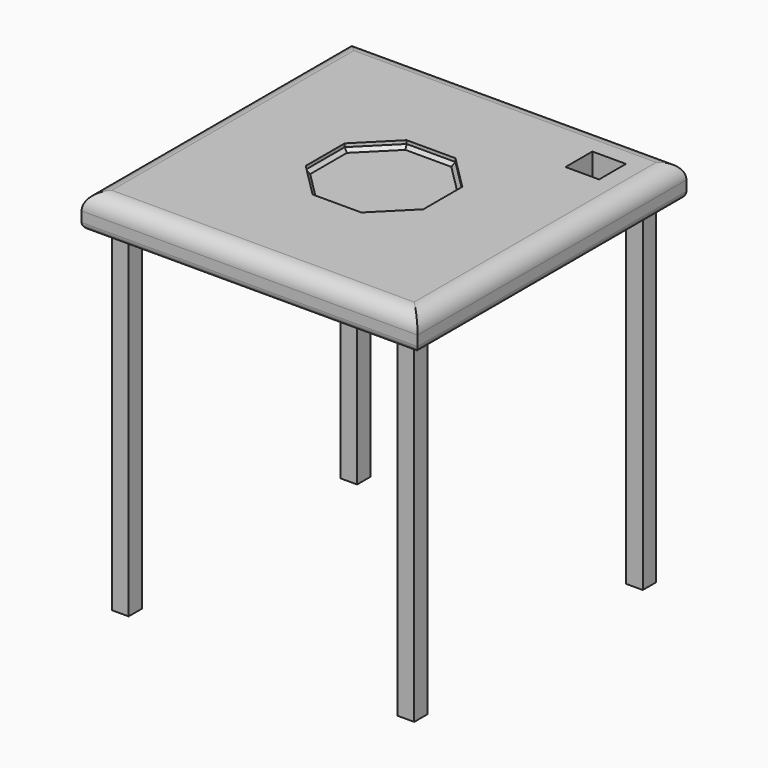
from build123d import *

# Parameters (mm, degrees)
F0_W      = 100
F0_H      = 100
F1_DEPTH  = 10
F2_W      = 5
F2_H      = 5
F3_DEPTH  = 100
F4_R      = 5
F5_R      = 2
F7_DEPTH  = 2
F8_SIZE   = 1
F9_W      = 10
F9_H      = 10
F10_DEPTH = 10


with BuildPart() as f1:
    # F0 (on Top) → F1 (new body)
    with BuildSketch(Plane.XY):
        Rectangle(F0_W, F0_H)
    extrude(amount=F1_DEPTH)

    # F2 (on face) → F3 (join)
    with BuildSketch(Plane(origin=(0, 0, 0), x_dir=(1, 0, 0), z_dir=(0, 0, -1))):
        with Locations((-42.5, 42.5)):
            Rectangle(F2_W, F2_H)
        with Locations((-42.5, -42.5)):
            Rectangle(F2_W, F2_H)
        with Locations((42.5, 42.5)):
            Rectangle(F2_W, F2_H)
        with Locations((42.5, -42.5)):
            Rectangle(F2_W, F2_H)
    extrude(amount=F3_DEPTH)

    # F4
    f4_edges = [f1.edges().sort_by_distance(p)[0] for p in [
        (0, 50, 10),
        (-50, 0, 10),
        (0, -50, 10),
        (50, 0, 10),
    ]]
    fillet(f4_edges, radius=F4_R)

    # F5
    f5_edges = [f1.edges().sort_by_distance(p)[0] for p in [
        (0, -50, 0),
        (50, 0, 0),
        (0, 50, 0),
        (-50, 0, 0),
    ]]
    fillet(f5_edges, radius=F5_R)

    # F6 (on face) → F7 (cut)
    with BuildSketch(Plane.XY.offset(10)):
        Polygon((-7.248737, -17.5), (7.248737, -17.5), (17.5, -7.248737), (17.5, 7.248737), (7.248737, 17.5), (-7.248737, 17.5), (-17.5, 7.248737), (-17.5, -7.248737), align=None)
    extrude(amount=-F7_DEPTH, mode=Mode.SUBTRACT)

    # F8
    f8_edges = [f1.edges().sort_by_distance(p)[0] for p in [
        (0, -17.5, 8),
        (12.374369, -12.374369, 8),
        (17.5, 0, 8),
        (12.374369, 12.374369, 8),
        (0, 17.5, 8),
        (-12.374369, 12.374369, 8),
        (-17.5, 0, 8),
        (-12.374369, -12.374369, 8),
    ]]
    chamfer(f8_edges, length=F8_SIZE)

    # F9 (on face) → F10 (cut, through all)
    with BuildSketch(Plane.XY.offset(10)):
        with Locations((35, 35)):
            Rectangle(F9_W, F9_H)
    extrude(amount=-F10_DEPTH, mode=Mode.SUBTRACT)


solid = f1.part
